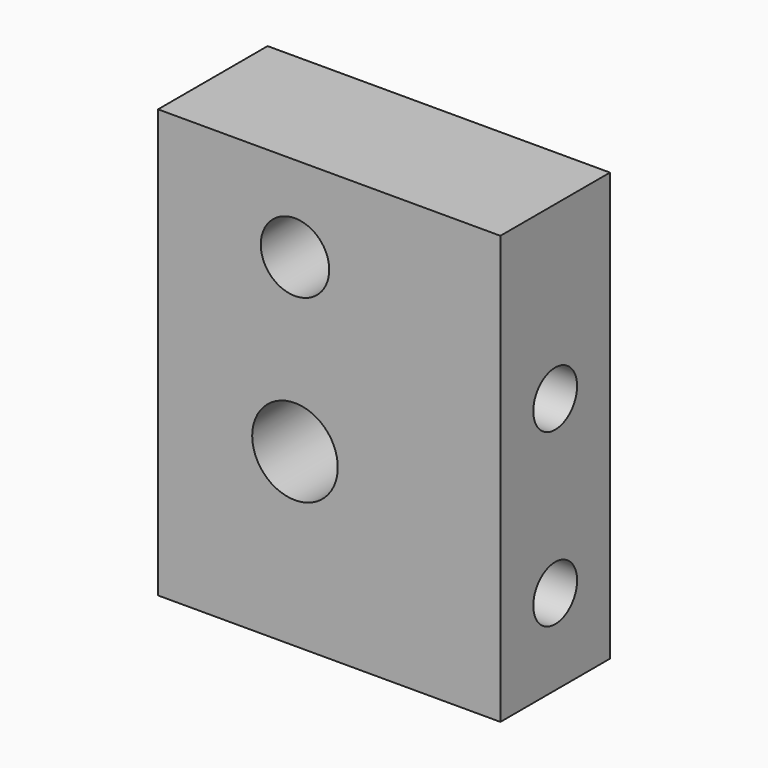
from build123d import *

# Parameters (mm, degrees)
F0_W     = 20
F0_H     = 25
F1_DEPTH = 4
F3_D     = 4
F4_D     = 5
F6_D     = 3.2
F6_DEPTH = 7
F6_TIP   = 0.9613769904


with BuildPart() as f1:
    # F0 (on Front) → F1 (new body, symmetric)
    with BuildSketch(Plane.XZ):
        Rectangle(F0_W, F0_H)
    extrude(amount=F1_DEPTH, both=True)

    # F3 (through all)
    with Locations(Plane.XZ.offset(4)):
        with Locations((-2, 7.5)):
            Hole(F3_D / 2)

    # F4 (through all)
    with Locations(Plane.XZ.offset(4)):
        with Locations((-2, -2.5)):
            Hole(F4_D / 2)

    # F6
    with Locations(Plane.YZ.offset(10)):
        with Locations((0, 2.5), (0, -7.5)):
            Hole(F6_D / 2, depth=F6_DEPTH)
            with Locations((0, 0, -(F6_DEPTH + F6_TIP / 2))):  # 118° drill point
                Cone(0, F6_D / 2, F6_TIP, mode=Mode.SUBTRACT)


solid = f1.part
